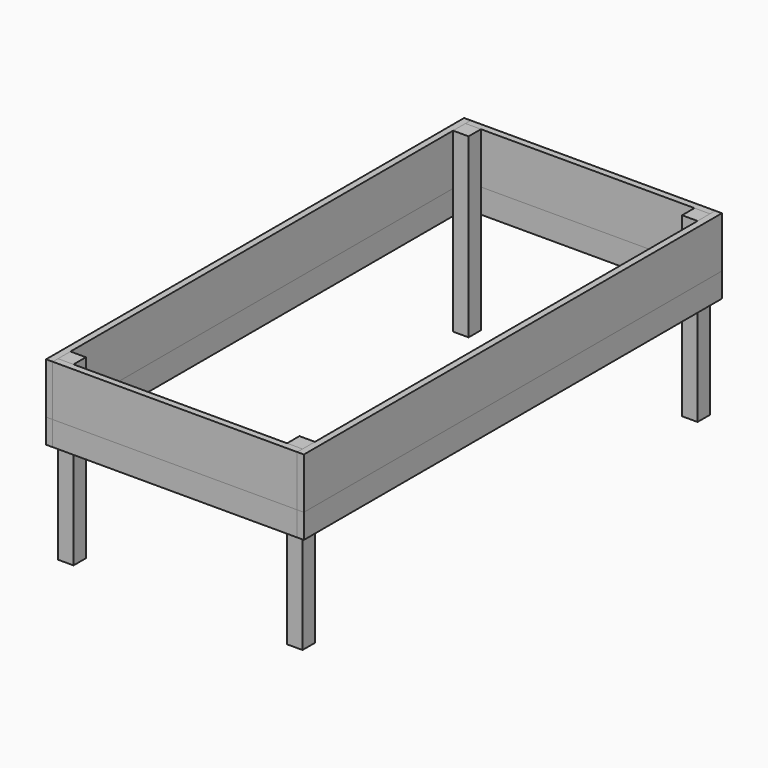
from build123d import *

# Parameters (mm, degrees)
F1_W          = 1.5
F1_H          = 11.5
F2_DEPTH      = 59.055
F2_DEPTH_BACK = 59.055
F1_H_2        = 5.5
F3_DEPTH      = 59.055
F3_DEPTH_BACK = 59.055
F4_W          = 1.5
F4_H          = 11.5
F5_DEPTH      = 27.63
F5_DEPTH_BACK = 27.63
F4_H_2        = 5.5
F6_DEPTH      = 27.63
F6_DEPTH_BACK = 27.63
F7_W          = 3.5
F7_H          = 3.5
F9_DEPTH      = 40


with BuildPart() as f2:
    # F1 (on Front) → F2 (new body, two sides)
    with BuildSketch(Plane.XZ) as f2_sk:
        with Locations((-28.38, -5.75)):
            Rectangle(F1_W, F1_H)
    extrude(amount=F2_DEPTH)
    extrude(f2_sk.sketch, amount=-F2_DEPTH_BACK)


with BuildPart() as f2b:
    # F1 (on Front) → F2, piece 2 (new body, two sides)
    with BuildSketch(Plane.XZ) as f2_2_sk:
        with Locations((28.38, -5.75)):
            Rectangle(F1_W, F1_H)
    extrude(amount=F2_DEPTH)
    extrude(f2_2_sk.sketch, amount=-F2_DEPTH_BACK)


with BuildPart() as f3:
    # F1 (on Front) → F3 (new body, two sides)
    with BuildSketch(Plane.XZ) as f3_sk:
        with Locations((-28.38, -14.25)):
            Rectangle(F1_W, F1_H_2)
    extrude(amount=F3_DEPTH)
    extrude(f3_sk.sketch, amount=-F3_DEPTH_BACK)


with BuildPart() as f3b:
    # F1 (on Front) → F3, piece 2 (new body, two sides)
    with BuildSketch(Plane.XZ) as f3_2_sk:
        with Locations((28.38, -14.25)):
            Rectangle(F1_W, F1_H_2)
    extrude(amount=F3_DEPTH)
    extrude(f3_2_sk.sketch, amount=-F3_DEPTH_BACK)


with BuildPart() as f5:
    # F4 (on Right) → F5 (new body, two sides)
    with BuildSketch(Plane.YZ) as f5_sk:
        with Locations((58.305, -5.75)):
            Rectangle(F4_W, F4_H)
    extrude(amount=F5_DEPTH)
    extrude(f5_sk.sketch, amount=-F5_DEPTH_BACK)


with BuildPart() as f5b:
    # F4 (on Right) → F5, piece 2 (new body, two sides)
    with BuildSketch(Plane.YZ) as f5_2_sk:
        with Locations((-58.305, -5.75)):
            Rectangle(F4_W, F4_H)
    extrude(amount=F5_DEPTH)
    extrude(f5_2_sk.sketch, amount=-F5_DEPTH_BACK)


with BuildPart() as f6:
    # F4 (on Right) → F6 (new body, two sides)
    with BuildSketch(Plane.YZ) as f6_sk:
        with Locations((-58.305, -14.25)):
            Rectangle(F4_W, F4_H_2)
    extrude(amount=F6_DEPTH)
    extrude(f6_sk.sketch, amount=-F6_DEPTH_BACK)


with BuildPart() as f6b:
    # F4 (on Right) → F6, piece 2 (new body, two sides)
    with BuildSketch(Plane.YZ) as f6_2_sk:
        with Locations((58.305, -14.25)):
            Rectangle(F4_W, F4_H_2)
    extrude(amount=F6_DEPTH)
    extrude(f6_2_sk.sketch, amount=-F6_DEPTH_BACK)


with BuildPart() as f9:
    # F7 (on Top) → F9 (new body, through all)
    with BuildSketch(Plane.XY):
        with Locations((-25.88, 55.805)):
            Rectangle(F7_W, F7_H)
    extrude(amount=-F9_DEPTH)


with BuildPart() as f9b:
    # F7 (on Top) → F9, piece 2 (new body, through all)
    with BuildSketch(Plane.XY):
        with Locations((25.88, 55.805)):
            Rectangle(F7_W, F7_H)
    extrude(amount=-F9_DEPTH)


with BuildPart() as f9c:
    # F7 (on Top) → F9, piece 3 (new body, through all)
    with BuildSketch(Plane.XY):
        with Locations((-25.88, -55.805)):
            Rectangle(F7_W, F7_H)
    extrude(amount=-F9_DEPTH)


with BuildPart() as f9d:
    # F7 (on Top) → F9, piece 4 (new body, through all)
    with BuildSketch(Plane.XY):
        with Locations((25.88, -55.805)):
            Rectangle(F7_W, F7_H)
    extrude(amount=-F9_DEPTH)


solid = Compound([f2.part, f2b.part, f3.part, f3b.part, f5.part, f5b.part, f6.part, f6b.part, f9.part, f9b.part, f9c.part, f9d.part])
